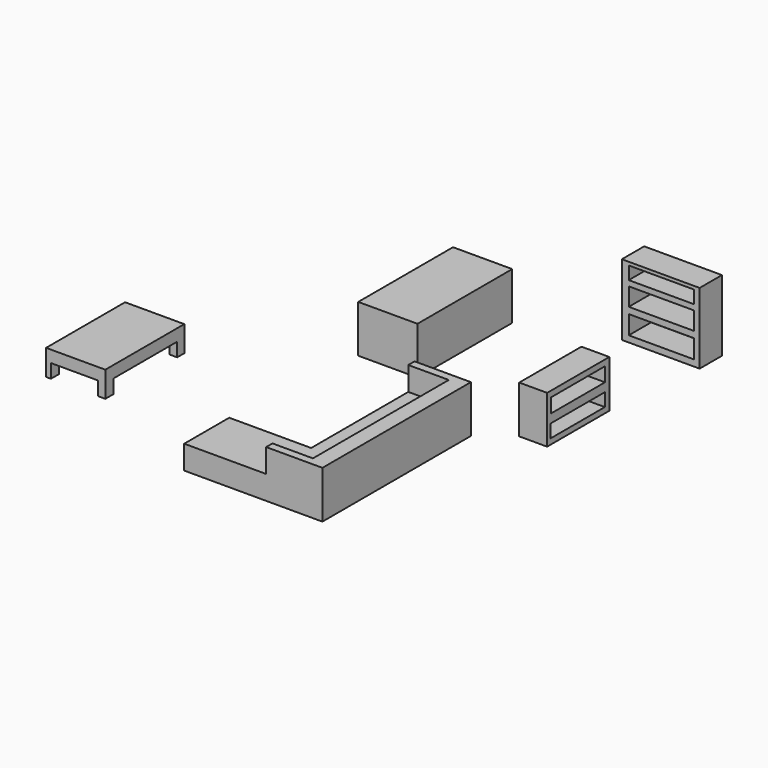
from build123d import *

# Parameters (mm, degrees)
F1_DEPTH  = 609.6
F3_DEPTH  = 304.8
F4_W      = 762
F4_H      = 1270
F5_DEPTH  = 330.2
F7_DEPTH  = 177.8
F9_DEPTH  = 609.6
F10_W     = 771.914303
F10_H     = 479.959786
F11_DEPTH = 457.2
F12_W     = 770.775476
F12_H     = 479.959786
F13_DEPTH = 406.4
F14_W     = 1000.125
F14_H     = 358.775
F15_DEPTH = 914.4
F16_W     = 836.795569
F16_H     = 240.478024
F16_H_2   = 232.198417
F16_H_3   = 166.179598
F17_DEPTH = 381
F18_W     = 358.775
F18_H     = 1000.125
F19_DEPTH = 609.6
F20_W     = 866.14275
F20_H     = 182.152093
F20_W_2   = 872.215271
F20_H_2   = 168.765642
F21_DEPTH = 381
F22_W     = 863.6
F22_H     = 558.8
F23_DEPTH = 609.601


with BuildPart() as f1:
    # F0 (on Top) → F1 (new body)
    with BuildSketch(Plane.XY):
        Polygon((1054.1, 0), (0, 0), (0, -723.9), (1778, -723.9), (1778, 1663.7), (1054.1, 1663.7), align=None)
    extrude(amount=F1_DEPTH)

    # F2 (on face) → F3 (cut)
    with BuildSketch(Plane.XY.offset(609.6)):
        Polygon((0, -723.9), (1054.1, -723.9), (1054.1, -622.3), (1574.8, -622.3), (1574.8, 1562.1), (1054.1, 1562.1), (1054.1, 0), (0, 0), align=None)
    extrude(amount=-F3_DEPTH, mode=Mode.SUBTRACT)


with BuildPart() as f5:
    # F4 (on Top) → F5 (new body)
    with BuildSketch(Plane.XY):
        with Locations((-1975.134279, 635)):
            Rectangle(F4_W, F4_H)
    extrude(amount=F5_DEPTH)

    # F6 (on face) → F7 (cut)
    with BuildSketch(Plane(origin=(0, 0, 0), x_dir=(1, 0, 0), z_dir=(0, 0, -1))):
        Polygon((-1594.134279, -1156.151891), (-1594.134279, -128.711686), (-1690.585136, -128.711686), (-1690.585136, 0), (-2293.469667, 0), (-2293.469667, -128.711686), (-2356.134279, -128.711686), (-2356.134279, -1156.151891), (-2293.469667, -1156.151891), (-2293.469667, -1270), (-1690.585136, -1270), (-1690.585136, -1156.151891), align=None)
    extrude(amount=-F7_DEPTH, mode=Mode.SUBTRACT)


with BuildPart() as f9:
    # F8 (on Top) → F9 (new body)
    with BuildSketch(Plane.XY):
        Polygon((-1059.714213, 2319.93286), (565.885787, 2319.93286), (565.885787, 3843.93286), (-196.114213, 3843.93286), (-196.114213, 2878.73286), (-1059.714213, 2878.73286), align=None)
    extrude(amount=F9_DEPTH)

    # F10 (on face) → F11 (cut)
    with BuildSketch(Plane(origin=(-196.114213, 0, 0), x_dir=(0, -1, 0), z_dir=(-1, 0, 0))):
        with Locations((-3264.690011, 239.979893)):
            Rectangle(F10_W, F10_H)
    extrude(amount=-F11_DEPTH, mode=Mode.SUBTRACT)

    # F12 (on face) → F13 (cut)
    with BuildSketch(Plane(origin=(0, 2878.73286, 0), x_dir=(-1, 0, 0), z_dir=(0, 1, 0))):
        with Locations((124.301951, 239.979893)):
            Rectangle(F12_W, F12_H)
    extrude(amount=-F13_DEPTH, mode=Mode.SUBTRACT)

    # F22 (on face) → F23 (cut, through all)
    with BuildSketch(Plane.XY.offset(609.6)):
        with Locations((-627.914213, 2599.33286)):
            Rectangle(F22_W, F22_H)
    extrude(amount=-F23_DEPTH, mode=Mode.SUBTRACT)


with BuildPart() as f15:
    # F14 (on Top) → F15 (new body)
    with BuildSketch(Plane.XY):
        with Locations((2157.65655, 4421.678798)):
            Rectangle(F14_W, F14_H)
    extrude(amount=F15_DEPTH)

    # F16 (on face) → F17 (cut)
    with BuildSketch(Plane(origin=(0, 4601.066298, 0), x_dir=(-1, 0, 0), z_dir=(0, 1, 0))):
        with Locations((-2164.568544, 201.77076)):
            Rectangle(F16_W, F16_H)
        with Locations((-2164.568544, 520.105391)):
            Rectangle(F16_W, F16_H_2)
        with Locations((-2164.568544, 789.629966)):
            Rectangle(F16_W, F16_H_3)
    extrude(amount=-F17_DEPTH, mode=Mode.SUBTRACT)


with BuildPart() as f19:
    # F18 (on Top) → F19 (new body)
    with BuildSketch(Plane.XY):
        with Locations((2342.487979, 2460.094988)):
            Rectangle(F18_W, F18_H)
    extrude(amount=F19_DEPTH)

    # F20 (on face) → F21 (cut)
    with BuildSketch(Plane(origin=(2163.100479, 0, 0), x_dir=(0, -1, 0), z_dir=(-1, 0, 0))):
        with Locations((-2457.515001, 442.187756)):
            Rectangle(F20_W, F20_H)
        with Locations((-2452.198028, 155.836668)):
            Rectangle(F20_W_2, F20_H_2)
    extrude(amount=-F21_DEPTH, mode=Mode.SUBTRACT)


solid = Compound([f1.part, f5.part, f9.part, f15.part, f19.part])
